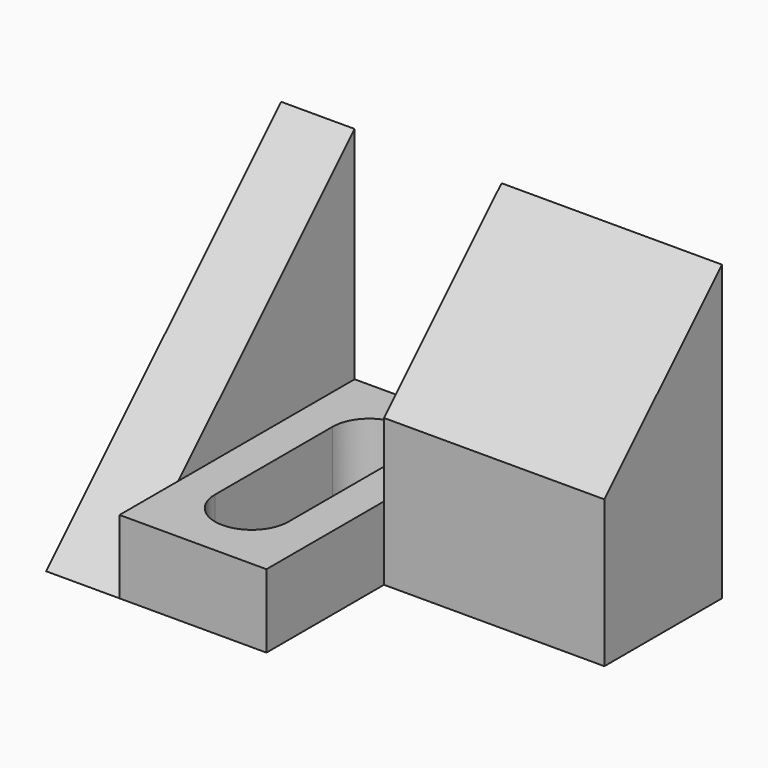
from build123d import *

# Parameters (mm, degrees)
F0_W      = 6.35
F0_H      = 25.4
F1_DEPTH  = 12.7
F2_W      = 12.7
F2_H      = 6.35
F3_DEPTH  = 25.4
F4_W      = 19.05
F4_H      = 12.7
F5_DEPTH  = 12.7
F7_DEPTH  = 19.05
F9_DEPTH  = 6.35
F10_W     = 6.35
F10_H     = 12.698938
F11_DEPTH = 25.4


with BuildPart() as f1:
    # F0 (on Front) → F1 (new body, symmetric)
    with BuildSketch(Plane.XZ):
        with Locations((3.175, 12.7)):
            Rectangle(F0_W, F0_H)
    extrude(amount=F1_DEPTH, both=True)

    # F2 (on face) → F3 (join)
    with BuildSketch(Plane.XZ.offset(12.7)):
        with Locations((12.7, 3.175)):
            Rectangle(F2_W, F2_H)
    extrude(amount=-F3_DEPTH)

    # F4 (on face) → F5 (join)
    with BuildSketch(Plane(origin=(0, 12.7, 0), x_dir=(-1, 0, 0), z_dir=(0, 1, 0))):
        with Locations((-28.575, 6.35)):
            Rectangle(F4_W, F4_H)
    extrude(amount=-F5_DEPTH)

    # F6 (on face) → F7 (join)
    with BuildSketch(Plane.YZ.offset(38.1)):
        Polygon((0, 12.7), (12.7, 12.7), (12.7, 25.4), align=None)
    extrude(amount=-F7_DEPTH)

    # F8 (on face) → F9 (cut)
    with BuildSketch(Plane(origin=(0, 0, 0), x_dir=(0, -1, 0), z_dir=(-1, 0, 0))):
        Polygon((-12.7, 25.4), (12.7, 0), (12.7, 25.4), align=None)
    extrude(amount=-F9_DEPTH, mode=Mode.SUBTRACT)

    # F10 (on face) → F11 (cut)
    with BuildSketch(Plane.XY.offset(6.35)):
        with Locations((12.7, -0.000531)):
            Rectangle(F10_W, F10_H)
        with BuildLine():
            ThreePointArc((15.875, 6.348938), (12.7, 9.523938), (9.525, 6.348938))
            Line((9.525, 6.348938), (15.875, 6.348938))
        make_face()
        with BuildLine():
            Line((15.875, -6.35), (9.525, -6.35))
            ThreePointArc((9.525, -6.35), (12.7, -9.525), (15.875, -6.35))
        make_face()
    extrude(amount=-F11_DEPTH, mode=Mode.SUBTRACT)


solid = f1.part
